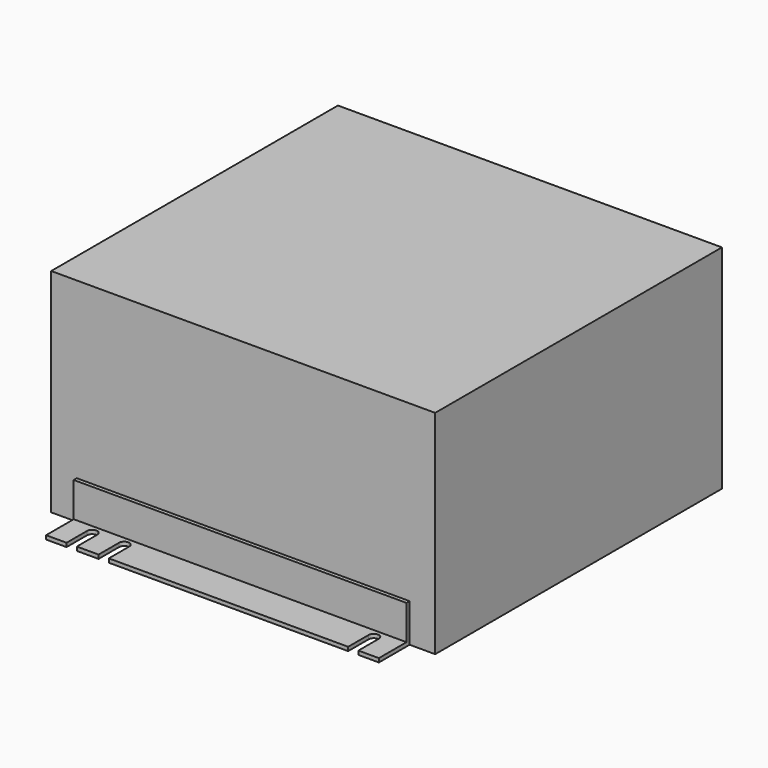
from build123d import *

# Parameters (mm, degrees)
F1_DEPTH = 83
F2_DEPTH = 1.5
F0_W     = 130
F0_H     = 1.5
F3_DEPTH = 15


with BuildPart() as f1:
    # F0 (on Top) → F1 (new body)
    with BuildSketch(Plane.XY):
        Polygon((75, -70), (75, 70), (-75, 70), (-75, -70), (-65, -70), (65, -70), align=None)
    extrude(amount=F1_DEPTH)



with BuildPart() as f2:
    # F0 (on Top) → F2 (new body)
    with BuildSketch(Plane.XY):
        with BuildLine():
            Line((65, -85), (65, -71.5))
            Line((65, -71.5), (-65, -71.5))
            Line((-65, -71.5), (-65, -85))
            Line((-65, -85), (-57, -85))
            Line((-57, -85), (-57, -75))
            ThreePointArc((-57, -75), (-55, -73), (-53, -75))
            Line((-53, -75), (-53, -85))
            Line((-53, -85), (-44.5, -85))
            Line((-44.5, -85), (-44.5, -75))
            ThreePointArc((-44.5, -75), (-42.5, -73), (-40.5, -75))
            Line((-40.5, -75), (-40.5, -85))
            Line((-40.5, -85), (53, -85))
            Line((53, -85), (53, -75))
            ThreePointArc((53, -75), (55, -73), (57, -75))
            Line((57, -75), (57, -85))
            Line((57, -85), (65, -85))
        make_face()
        with BuildLine():
            Line((65, -85), (65, -71.5))
            Line((65, -71.5), (-65, -71.5))
            Line((-65, -71.5), (-65, -85))
            Line((-65, -85), (-57, -85))
            Line((-57, -85), (-57, -75))
            ThreePointArc((-57, -75), (-55, -73), (-53, -75))
            Line((-53, -75), (-53, -85))
            Line((-53, -85), (-44.5, -85))
            Line((-44.5, -85), (-44.5, -75))
            ThreePointArc((-44.5, -75), (-42.5, -73), (-40.5, -75))
            Line((-40.5, -75), (-40.5, -85))
            Line((-40.5, -85), (53, -85))
            Line((53, -85), (53, -75))
            ThreePointArc((53, -75), (55, -73), (57, -75))
            Line((57, -75), (57, -85))
            Line((57, -85), (65, -85))
        make_face()
    extrude(amount=F2_DEPTH)


with BuildPart() as f1_1:
    add(f1.part)

    add(f2.part)  # F3 merges F2
    # F0 (on Top) → F3 (join)
    with BuildSketch(Plane.XY):
        with Locations((0, -70.75)):
            Rectangle(F0_W, F0_H)
    extrude(amount=F3_DEPTH)


solid = f1_1.part
